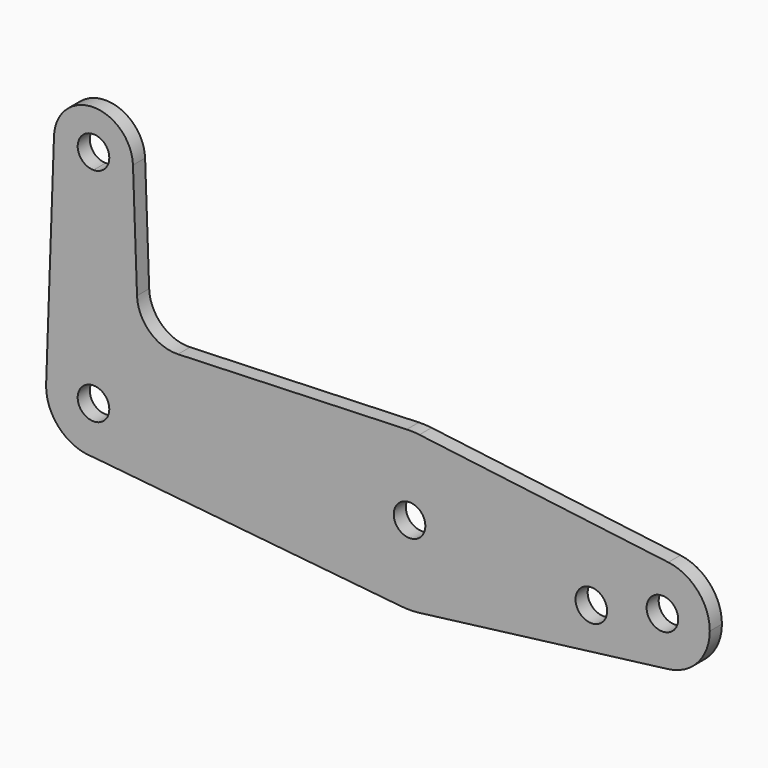
from build123d import *

# Parameters (mm, degrees)
F0_R     = 3.175
F1_DEPTH = 3.048


with BuildPart() as f1:
    # F0 (on Front) → F1 (new body)
    with BuildSketch(Plane.XZ):
        with BuildLine():
            ThreePointArc((9.525, 0), (6.7351920908, 6.7351920908), (0, 9.525))
            ThreePointArc((0, 9.525), (-6.4912990883, 6.9705567315), (-9.500885786, 0.6773435479))
            Line((-9.500885786, 0.6773435479), (-9.525, 0))
            ThreePointArc((-9.525, 0), (-6.7351920908, -6.7351920908), (0, -9.525))
            ThreePointArc((0, -9.525), (6.7351920908, -6.7351920908), (9.525, 0))
        make_face()
        with BuildLine():
            ThreePointArc((3.175, 0), (-2.2450640303, -2.2450640303), (0, 3.175))
            ThreePointArc((0, 3.175), (2.2450640303, 2.2450640303), (3.175, 0))
        make_face(mode=Mode.SUBTRACT)
        with BuildLine():
            ThreePointArc((-9.500885786, 0.6773435479), (-6.4912990883, 6.9705567315), (0, 9.525))
            Line((0, 9.525), (0, 36.5125))
            ThreePointArc((0, 36.5125), (-5.7116327839, 38.9380895153), (-7.9324746146, 44.7324052746))
            Line((-7.9324746146, 44.7324052746), (-9.500885786, 0.6773435479))
        make_face()
        with BuildLine():
            Line((0, 36.5125), (0, 9.525))
            ThreePointArc((0, 9.525), (6.7351920908, 6.7351920908), (9.525, 0))
            ThreePointArc((9.525, 0), (6.7351920908, -6.7351920908), (0, -9.525))
            Line((0, -9.525), (61.9003804205, -15.7942028036))
            ThreePointArc((61.9003804205, -15.7942028036), (47.6334382359, 0.5175353004), (62.9330357143, 15.8648724073))
            Line((62.9330357143, 15.8648724073), (16.9780821582, 14.2225763491))
            ThreePointArc((16.9780821582, 14.2225763491), (11.2768653549, 16.3488776236), (8.7490183423, 21.8837687364))
            Line((8.7490183423, 21.8837687364), (7.9324362036, 44.7334821429))
            ThreePointArc((7.9324362036, 44.7334821429), (7.9362339499, 44.5917636831), (7.9375, 44.45))
            ThreePointArc((7.9375, 44.45), (5.6126600757, 38.8373399243), (0, 36.5125))
        make_face()
        with BuildLine():
            ThreePointArc((-7.9324746146, 44.7324052746), (-5.7116327839, 38.9380895153), (0, 36.5125))
            ThreePointArc((0, 36.5125), (5.6126600757, 38.8373399243), (7.9375, 44.45))
            ThreePointArc((7.9375, 44.45), (7.9362339499, 44.5917636831), (7.9324362036, 44.7334821429))
            ThreePointArc((7.9324362036, 44.7334821429), (-0.0005387766, 52.3874999817), (-7.9324746146, 44.7324052746))
        make_face()
        with BuildLine():
            ThreePointArc((3.175, 44.45), (2.2450640303, 42.2049359697), (0, 41.275))
            ThreePointArc((0, 41.275), (-2.2450640303, 46.6950640303), (3.175, 44.45))
        make_face(mode=Mode.SUBTRACT)
        with BuildLine():
            Line((-9.525, 0), (-9.500885786, 0.6773435479))
            ThreePointArc((-9.500885786, 0.6773435479), (-9.5189695375, 0.3388863295), (-9.525, 0))
        make_face()
        with BuildLine():
            ThreePointArc((62.9330357143, 15.8648724073), (47.6334382359, 0.5175353004), (61.9003804205, -15.7942028036))
            ThreePointArc((61.9003804205, -15.7942028036), (63.6936154008, -15.8738192656), (65.484375, -15.7504882737))
            ThreePointArc((65.484375, -15.7504882737), (75.40625, -10.5003255158), (79.375, 0))
            ThreePointArc((79.375, 0), (75.40625, 10.5003255158), (65.484375, 15.7504882737))
            ThreePointArc((65.484375, 15.7504882737), (64.2110092937, 15.8590696696), (62.9330357143, 15.8648724073))
        make_face()
        with Locations((63.5, 0)):
            Circle(F0_R, mode=Mode.SUBTRACT)
        with BuildLine():
            ThreePointArc((79.375, 0), (75.40625, -10.5003255158), (65.484375, -15.7504882737))
            Line((65.484375, -15.7504882737), (115.490625, -9.4502929642))
            ThreePointArc((115.490625, -9.4502929642), (104.775, 0), (115.490625, 9.4502929642))
            Line((115.490625, 9.4502929642), (65.484375, 15.7504882737))
            ThreePointArc((65.484375, 15.7504882737), (75.40625, 10.5003255158), (79.375, 0))
        make_face()
        with Locations((100.0252, -3.175)):
            Circle(F0_R, mode=Mode.SUBTRACT)
        with BuildLine():
            ThreePointArc((115.490625, 9.4502929642), (104.775, 0), (115.490625, -9.4502929642))
            ThreePointArc((115.490625, -9.4502929642), (121.44375, -6.3001953095), (123.825, 0))
            ThreePointArc((123.825, 0), (121.44375, 6.3001953095), (115.490625, 9.4502929642))
        make_face()
        with Locations((114.3, 0)):
            Circle(F0_R, mode=Mode.SUBTRACT)
    extrude(amount=F1_DEPTH)


solid = f1.part
